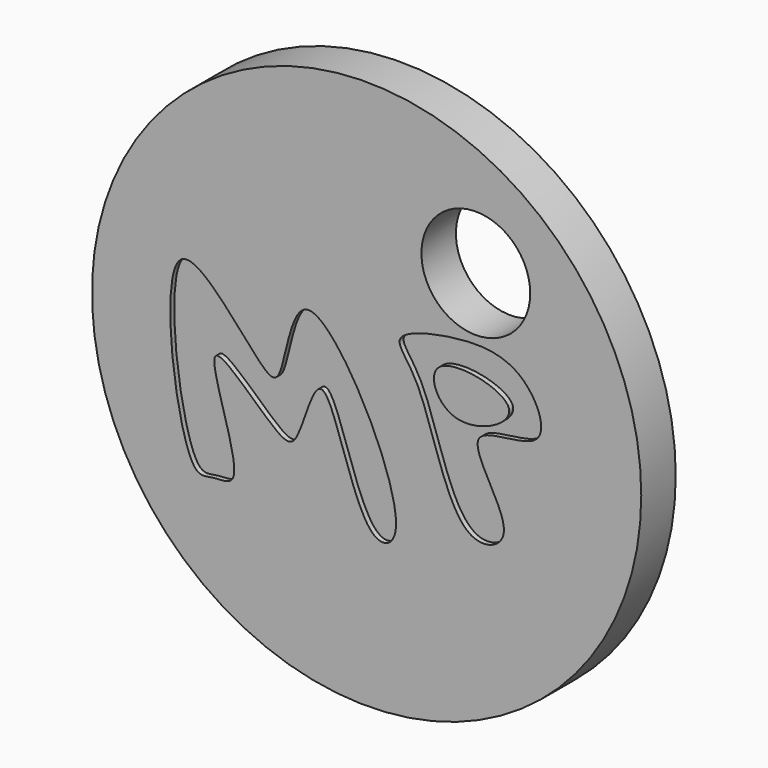
from build123d import *

# Parameters (mm, degrees)
F0_R     = 13.7025298736
F1_DEPTH = 2.15
F2_R     = 2.714082418
F3_DEPTH = 2.15
F5_DEPTH = 0.25
F7_DEPTH = 0.25


with BuildPart() as f1:
    # F0 (on Front) → F1 (new body)
    with BuildSketch(Plane.XZ):
        with Locations((15.7406944782, 15.6117072329)):
            Circle(F0_R)
    extrude(amount=F1_DEPTH)

    # F2 (on face) → F3 (cut, through all)
    with BuildSketch(Plane.XZ.offset(2.15)):
        with Locations((21.1884863675, 22.6808935404)):
            Circle(F2_R)
    extrude(amount=-F3_DEPTH, mode=Mode.SUBTRACT)

    # F4 (on face) → F5 (cut)
    with BuildSketch(Plane.XZ.offset(2.15)):
        with BuildLine():
            add(Edge.make_bspline(
                [(20.969979465, 11.0944593325), (19.6686940002, 11.8261650207), (18.7725636109, 17.058719556), (16.6200652785, 18.7139333936), (20.1512534821, 19.6778322827), (23.6453928304, 19.6115960219), (25.3456660389, 15.5545028776), (19.4623643548, 16.3851829709), (23.8270891214, 11.5767983275), (21.6498636997, 10.7121641519), (20.969979465, 11.0944593325)],
                knots=[0, 0, 0, 0, 0.1803662779, 0.2770618475, 0.3933092341, 0.5285627779, 0.6420801813, 0.7657452328, 0.9057638065, 1, 1, 1, 1], degree=3))
        make_face()
        with BuildLine():
            add(Edge.make_bspline(
                [(19.3530190736, 17.9575625807), (18.7725053887, 17.4758891415), (19.8062918587, 14.9204054811), (24.9372077458, 17.5569457723), (20.1063552329, 18.5826331486), (19.3530190736, 17.9575625807)],
                knots=[0, 0, 0, 0, 0.2874659631, 0.6269536616, 1, 1, 1, 1], degree=3))
        make_face(mode=Mode.SUBTRACT)
        with BuildLine():
            add(Edge.make_bspline(
                [(7.1000447497, 9.6930935979), (6.2060231345, 11.0546586687), (4.635491382, 23.1428887107), (10.4781744873, 14.7326130962), (11.6510512387, 14.7454314222), (12.2483670562, 22.2505538038), (18.6214517034, 10.017491092), (15.326895794, 8.5923478879), (13.6314088949, 17.8611212803), (12.4301541285, 12.347886401), (11.3943487379, 11.9912759175), (6.4314952582, 17.6124455226), (10.0633517044, 9.2213543201), (8.0290435543, 9.5703663563), (7.405947564, 9.227213825), (7.1000447497, 9.6930935979)],
                knots=[0, 0, 0, 0, 0.1261697887, 0.2247341317, 0.2606937908, 0.3408117151, 0.470033005, 0.5180983627, 0.6224621997, 0.692528868, 0.7324973233, 0.8173122803, 0.9124768002, 0.9568291272, 1, 1, 1, 1], degree=3))
        make_face()
    extrude(amount=-F5_DEPTH, mode=Mode.SUBTRACT)

    # F6 (on face) → F7 (cut)
    with BuildSketch(Plane(origin=(0, 0, 0), x_dir=(-1, 0, 0), z_dir=(0, 1, 0))):
        with BuildLine():
            add(Edge.make_bspline(
                [(-26.5631712973, 16.9881135225), (-27.6672635199, 15.4032855964), (-26.0900903264, 7.1319848163), (-20.8920168481, 8.1879762375), (-18.4171658117, 9.3470854635), (-18.6153540116, 18.3631971839), (-23.7895154172, 18.5375966479), (-19.6782321996, 10.1326438327), (-25.5236849813, 9.2217041554), (-23.0891574789, 17.7056681129), (-26.0176950928, 17.7710969584), (-26.5631712973, 16.9881135225)],
                knots=[0, 0, 0, 0, 0.1526598481, 0.2583213369, 0.3417874551, 0.4890136911, 0.5669071136, 0.7065672404, 0.7881236809, 0.9245784792, 1, 1, 1, 1], degree=3))
        make_face()
        with BuildLine():
            add(Edge.make_bspline(
                [(-17.2441601753, 14.3536487594), (-18.0735168005, 15.2578911205), (-18.5332476062, 18.7018037657), (-16.6240566222, 18.7132639449), (-14.1109341666, 13.8198317898), (-15.9725924949, 18.8483651486), (-13.8569099077, 18.9999653717), (-13.1570282712, 14.2210374748), (-14.9420460073, 13.8205062804), (-17.9579100326, 19.1685159676), (-15.2192577137, 13.6251653315), (-16.7909286595, 13.8594932616), (-17.2441601753, 14.3536487594)],
                knots=[0, 0, 0, 0, 0.1317632443, 0.2013379628, 0.3185329551, 0.4280354139, 0.4911927601, 0.6250286594, 0.692712373, 0.814796899, 0.9279932744, 1, 1, 1, 1], degree=3))
        make_face()
        with BuildLine():
            add(Edge.make_bspline(
                [(-10.6229670346, 21.269896999), (-11.2146173003, 21.1265144658), (-11.960093346, 21.0625641311), (-13.3711046799, 19.4211019672), (-12.1987551079, 18.1379668398), (-9.8251895189, 18.2429265459), (-7.8174148756, 16.494603972), (-9.3841371692, 14.3397519424), (-10.8221147591, 14.740032561), (-12.7519860919, 14.1781902309), (-10.063189625, 12.1285434311), (-6.376524158, 14.2813615624), (-6.4246482612, 18.389598017), (-8.2873525165, 19.0627342262), (-10.2213087271, 19.4404737062), (-11.9270488938, 19.0167109034), (-11.0825749154, 20.5001287765), (-7.9948743566, 20.0565727349), (-8.0026835536, 22.0540802213), (-9.8620352582, 21.454303788), (-10.6229670346, 21.269896999)],
                knots=[0, 0, 0, 0, 0.0487222897, 0.1019306251, 0.1475646473, 0.2104862836, 0.2697286474, 0.3266331311, 0.3767058263, 0.4213689356, 0.480900911, 0.5596529439, 0.6349020896, 0.6877267743, 0.7472599813, 0.7915722979, 0.8306278379, 0.8987002631, 0.9373374093, 1, 1, 1, 1], degree=3))
        make_face()
        with BuildLine():
            add(Edge.make_bspline(
                [(-5.4729734547, 12.6787191257), (-5.9189395604, 11.9535261727), (-5.5673075346, 9.6737380069), (-4.4092114859, 9.57401324), (-4.9985711458, 11.6035784572), (-4.2643968121, 9.7594384131), (-3.3477001841, 9.8351738755), (-4.567123924, 11.2321493753), (-3.8056047267, 10.8530468988), (-3.0059991333, 11.3316192394), (-2.7989251351, 12.6994808142), (-3.7704714824, 13.3107301271), (-5.1249489576, 13.2446475888), (-5.4729734547, 12.6787191257)],
                knots=[0, 0, 0, 0, 0.15102716, 0.2161602529, 0.3087197147, 0.4038669398, 0.4616011833, 0.5589298303, 0.6121106846, 0.6954514937, 0.792472419, 0.8821409279, 1, 1, 1, 1], degree=3))
        make_face()
        with BuildLine():
            add(Edge.make_bspline(
                [(-4.9047088251, 12.2564947233), (-4.9201478554, 12.0077788319), (-5.3682127483, 11.3231562239), (-3.3532892424, 11.1420141864), (-3.259531029, 12.8481373481), (-5.1598277233, 12.9100408469), (-4.8923319849, 12.4558800963), (-4.9047088251, 12.2564947233)],
                knots=[0, 0, 0, 0, 0.1761886909, 0.4121455335, 0.6251723713, 0.8587567216, 1, 1, 1, 1], degree=3))
        make_face(mode=Mode.SUBTRACT)
        with BuildLine():
            add(Edge.make_bspline(
                [(-9.0896664187, 10.9242349863), (-9.6280758618, 9.7300235763), (-8.8725871659, 6.6326127893), (-5.8005265463, 7.7510149656), (-6.5026185119, 9.3227635884), (-7.6185572582, 7.6806867488), (-8.4363105515, 9.5083166294), (-6.2606081721, 9.0982105467), (-6.5151877757, 10.8332548971), (-8.5137717403, 9.7316240415), (-8.5341241225, 11.1531953803), (-5.838538378, 10.566535107), (-6.6063631912, 12.9986913879), (-8.6190022597, 11.9681849322), (-9.0896664187, 10.9242349863)],
                knots=[0, 0, 0, 0, 0.1292311204, 0.228647465, 0.2906872861, 0.3662960272, 0.4314217963, 0.5141635186, 0.5763420459, 0.6639230366, 0.7152800602, 0.811844939, 0.8870293652, 1, 1, 1, 1], degree=3))
        make_face()
        with BuildLine():
            add(Edge.make_bspline(
                [(-13.5077955201, 7.7366074547), (-13.7915547077, 7.9711537633), (-14.7200371236, 7.6630107914), (-14.3858190897, 5.3153486645), (-12.6926548305, 5.3162134536), (-13.0647550111, 7.3704042779), (-13.5077955201, 7.7366074547)],
                knots=[0, 0, 0, 0, 0.197110859, 0.4901827438, 0.6922457524, 1, 1, 1, 1], degree=3))
        make_face()
        with BuildLine():
            add(Edge.make_bspline(
                [(-17.8242009133, 3.3654372673), (-18.1557822929, 3.8702639365), (-17.7086713079, 5.8083936083), (-19.6570800881, 4.6912100745), (-20.193277967, 5.7092554293), (-18.0141855715, 6.0064239145), (-15.7894999423, 6.9468049269), (-15.3804898671, 5.2619740889), (-17.5779755286, 6.0830938826), (-16.1988560265, 2.7843505397), (-17.5807219981, 2.9947450111), (-17.8242009133, 3.3654372673)],
                knots=[0, 0, 0, 0, 0.1276800524, 0.2387058916, 0.306872323, 0.4380292624, 0.5794819105, 0.6629802258, 0.7649607509, 0.906245035, 1, 1, 1, 1], degree=3))
        make_face()
        with BuildLine():
            add(Edge.make_bspline(
                [(-14.5307676867, 8.5213324055), (-14.4713961793, 8.2823162053), (-13.9049649441, 8.1222168365), (-12.5493711306, 8.9962919169), (-14.0875056966, 10.1410626894), (-14.6139783035, 8.8563194446), (-14.5307676867, 8.5213324055)],
                knots=[0, 0, 0, 0, 0.1987794482, 0.4660701372, 0.721405751, 1, 1, 1, 1], degree=3))
        make_face()
        with BuildLine():
            add(Edge.make_bspline(
                [(-9.9170496687, 10.3620886803), (-10.6700405843, 10.8122043524), (-14.0514779082, 10.8558675897), (-11.5559150187, 4.9952855243), (-9.9082668925, 5.5306077282), (-12.3055789927, 7.8569814251), (-9.216758962, 7.1848978128), (-9.6084304722, 9.0101617962), (-11.6105215079, 7.6089053642), (-12.4526429435, 10.0589995534), (-8.9578625943, 9.0431600298), (-9.4794417683, 10.1004996356), (-9.9170496687, 10.3620886803)],
                knots=[0, 0, 0, 0, 0.1256394564, 0.2922247401, 0.3541055427, 0.4587961047, 0.5580657731, 0.6268174163, 0.7279231918, 0.8104387069, 0.9269834236, 1, 1, 1, 1], degree=3))
        make_face()
        with BuildLine():
            add(Edge.make_bspline(
                [(-4.9047088251, 12.2564947233), (-4.9201478554, 12.0077788319), (-5.3682127483, 11.3231562239), (-3.3532892424, 11.1420141864), (-3.259531029, 12.8481373481), (-5.1598277233, 12.9100408469), (-4.8923319849, 12.4558800963), (-4.9047088251, 12.2564947233)],
                knots=[0, 0, 0, 0, 0.1761886909, 0.4121455335, 0.6251723713, 0.8587567216, 1, 1, 1, 1], degree=3))
        make_face()
    extrude(amount=-F7_DEPTH, mode=Mode.SUBTRACT)


solid = f1.part
